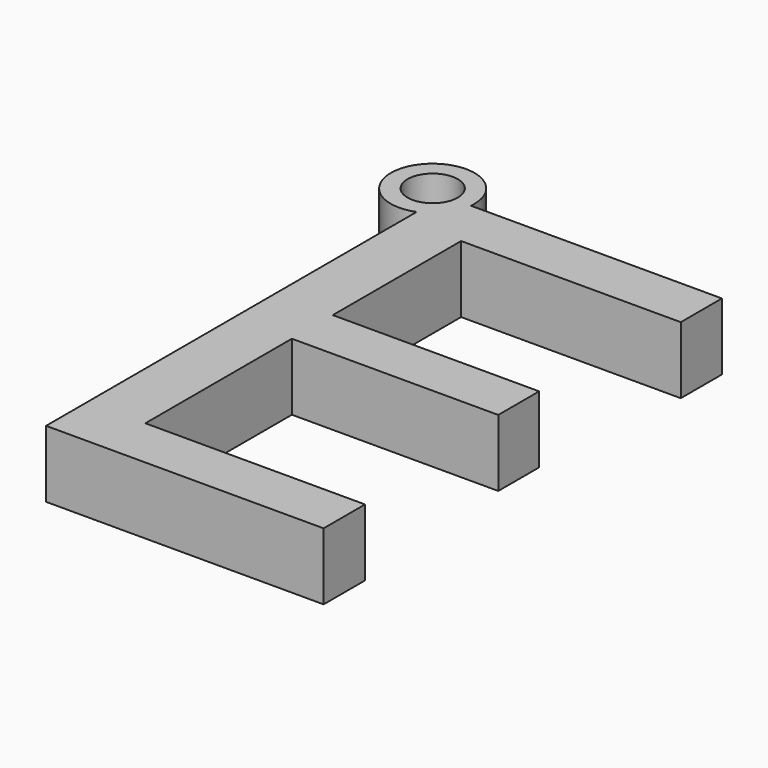
from build123d import *

# Parameters (mm, degrees)
F1_DEPTH = 4


with BuildPart() as f1:
    # F0 (on Top) → F1 (new body)
    with BuildSketch(Plane.XY):
        with BuildLine():
            ThreePointArc((-21.3281772584, 26.4835794998), (-23.5728167331, 28.3513270209), (-20.7305210084, 27.6818181058))
            ThreePointArc((-20.7305210084, 27.6818181058), (-20.7359422147, 27.5544044904), (-20.7521666475, 27.4279118558))
            Line((-20.7521666475, 27.4279118558), (-19.7434481071, 27.4279118558))
            ThreePointArc((-19.7434481071, 27.4279118558), (-19.7337548746, 27.5547005483), (-19.7305210084, 27.6818181058))
            ThreePointArc((-19.7305210084, 27.6818181058), (-24.2927842524, 29.0949954876), (-21.3281772584, 25.3503430883))
            Line((-21.3281772584, 25.3503430883), (-21.3281772584, 26.4835794998))
        make_face()
        with BuildLine():
            ThreePointArc((-20.7521666475, 27.4279118558), (-20.949946226, 26.9007110538), (-21.3281772584, 26.4835794998))
            Line((-21.3281772584, 26.4835794998), (-21.3281772584, 25.3503430883))
            ThreePointArc((-21.3281772584, 25.3503430883), (-20.2427812606, 26.165608788), (-19.7434481071, 27.4279118558))
            Line((-19.7434481071, 27.4279118558), (-20.7521666475, 27.4279118558))
        make_face()
        with BuildLine():
            ThreePointArc((-19.7434481071, 27.4279118558), (-20.2427812606, 26.165608788), (-21.3281772584, 25.3503430883))
            Line((-21.3281772584, 25.3503430883), (-21.3281772584, -2.3181818942))
            Line((-21.3281772584, -2.3181818942), (-4.7461460084, -2.3181818942))
            Line((-4.7461460084, -2.3181818942), (-4.7461460084, 0.7742660224))
            Line((-4.7461460084, 0.7742660224), (-17.8711460084, 0.7742660224))
            Line((-17.8711460084, 0.7742660224), (-17.8711460084, 11.7182764391))
            Line((-17.8711460084, 11.7182764391), (-5.5404168417, 11.7182764391))
            Line((-5.5404168417, 11.7182764391), (-5.5404168417, 14.7716618558))
            Line((-5.5404168417, 14.7716618558), (-17.8711460084, 14.7716618558))
            Line((-17.8711460084, 14.7716618558), (-17.8711460084, 24.3549951891))
            Line((-17.8711460084, 24.3549951891), (-4.7461460084, 24.3549951891))
            Line((-4.7461460084, 24.3549951891), (-4.7461460084, 27.4279118558))
            Line((-4.7461460084, 27.4279118558), (-19.7434481071, 27.4279118558))
        make_face()
    extrude(amount=F1_DEPTH)


solid = f1.part
